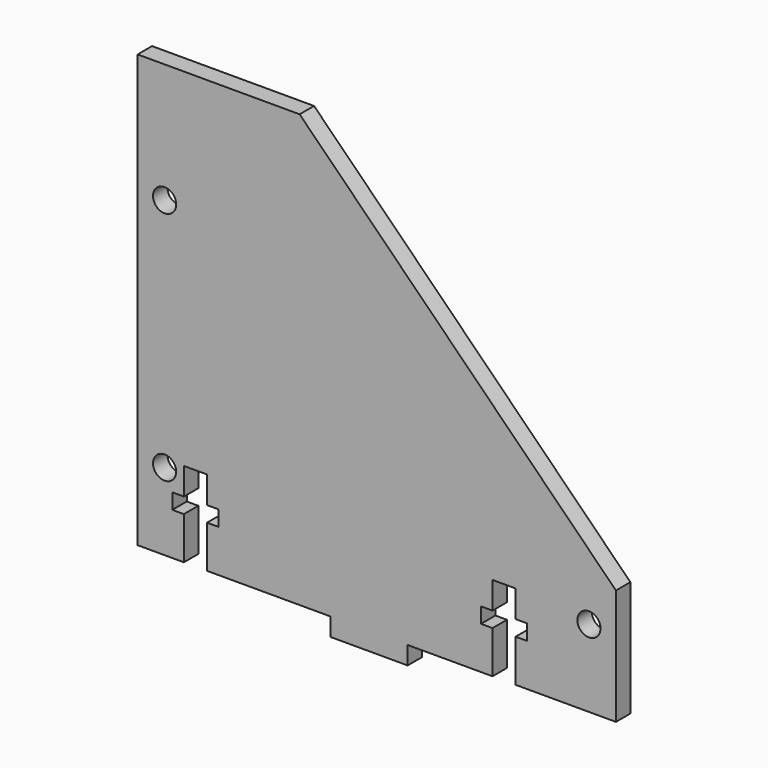
from build123d import *

# Parameters (mm, degrees)
F0_R     = 1.905
F1_DEPTH = 2.9718


with BuildPart() as f1:
    # F0 (on Front) → F1 (new body)
    with BuildSketch(Plane.XZ):
        Polygon((0, 71.12), (0, 0), (7.62, 0), (7.62, 6.985), (5.715, 6.985), (5.715, 9.525), (7.62, 9.525), (7.62, 13.97), (11.43, 13.97), (11.43, 9.525), (13.335, 9.525), (13.335, 6.985), (11.43, 6.985), (11.43, 0), (31.75, 0), (31.75, -2.9718), (44.45, -2.9718), (44.45, 0), (58.42, 0), (58.42, 6.985), (56.515, 6.985), (56.515, 9.525), (58.42, 9.525), (58.42, 13.97), (62.23, 13.97), (62.23, 9.525), (64.135, 9.525), (64.135, 6.985), (62.23, 6.985), (62.23, 0), (78.74, 0), (78.74, 19.05), (26.67, 71.12), align=None)
        with Locations((4.445, 12.7)):
            Circle(F0_R, mode=Mode.SUBTRACT)
        with Locations((74.295, 12.7)):
            Circle(F0_R, mode=Mode.SUBTRACT)
        with Locations((4.445, 51.435)):
            Circle(F0_R, mode=Mode.SUBTRACT)
    extrude(amount=F1_DEPTH)


solid = f1.part
